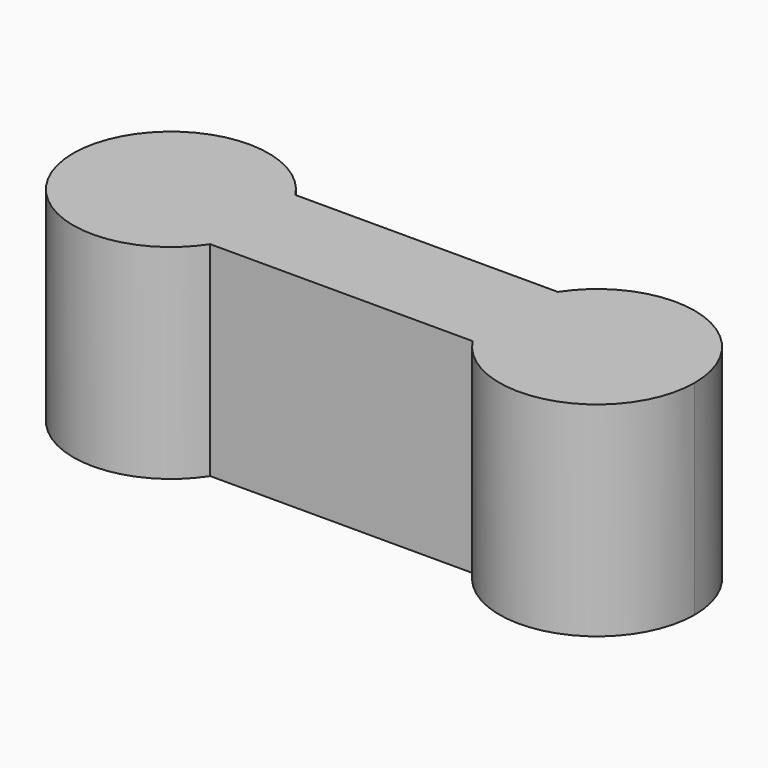
from build123d import *

# Parameters (mm, degrees)
F1_DEPTH = 11.5


with BuildPart() as f1:
    # F0 (on Top) → F1 (new body)
    with BuildSketch(Plane.XY):
        with BuildLine():
            ThreePointArc((4.609772, -3), (5.272748, -1.564649), (5.5, 0))
            ThreePointArc((5.5, 0), (5.272748, 1.564649), (4.609772, 3))
            ThreePointArc((4.609772, 3), (-5.5, 0), (4.609772, -3))
        make_face()
        with BuildLine():
            ThreePointArc((4.609772, 3), (5.272748, 1.564649), (5.5, 0))
            ThreePointArc((5.5, 0), (5.272748, -1.564649), (4.609772, -3))
            Line((4.609772, -3), (19.390228, -3))
            ThreePointArc((19.390228, -3), (18.5, 0), (19.390228, 3))
            Line((19.390228, 3), (4.609772, 3))
        make_face()
        with BuildLine():
            ThreePointArc((29.5, 0), (25.564649, 5.272748), (19.390228, 3))
            ThreePointArc((19.390228, 3), (18.5, 0), (19.390228, -3))
            ThreePointArc((19.390228, -3), (25.564649, -5.272748), (29.5, 0))
        make_face()
    extrude(amount=F1_DEPTH)


solid = f1.part
